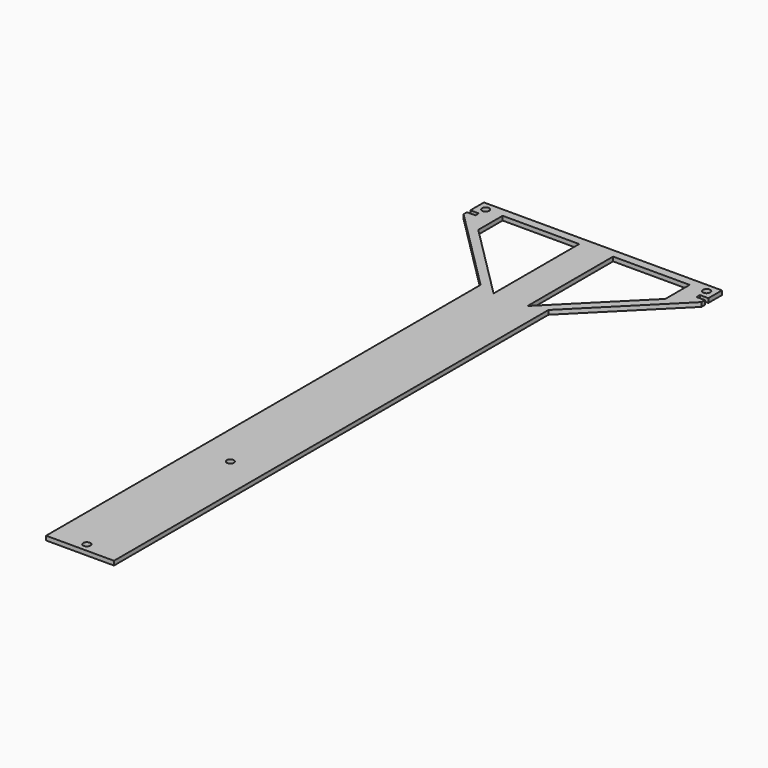
from build123d import *

# Parameters (mm, degrees)
F0_R     = 1.35255
F1_DEPTH = 1.5875
F2_W     = 3.175
F2_H     = 1.5875
F3_DEPTH = 1.5875


with BuildPart() as f1:
    # F0 (on Top) → F1 (new body)
    with BuildSketch(Plane.XY):
        Polygon((0, 0), (0, -203.2), (25.4, -203.2), (25.4, 0), (57.21985, 31.81985), (57.21985, 41.34485), (-31.81985, 41.34485), (-31.81985, 31.81985), align=None)
        with Locations((12.7, -200.025)):
            Circle(F0_R, mode=Mode.SUBTRACT)
        with Locations((12.7, -132.8928)):
            Circle(F0_R, mode=Mode.SUBTRACT)
        with Locations((-28.64485, 38.16985)):
            Circle(F0_R, mode=Mode.SUBTRACT)
        with Locations((54.04485, 38.16985)):
            Circle(F0_R, mode=Mode.SUBTRACT)
    extrude(amount=F1_DEPTH)

    # F2 (on face) → F3 (cut, through all)
    with BuildSketch(Plane.XY.offset(1.5875)):
        with Locations((-30.23235, 34.2011)):
            Rectangle(F2_W, F2_H)
        with Locations((55.63235, 34.2011)):
            Rectangle(F2_W, F2_H)
        Polygon((-22.29485, 38.16985), (-22.29485, 26.784978), (6.35, -1.859872), (6.35, 38.16985), align=None)
        Polygon((47.69485, 38.16985), (19.05, 38.16985), (19.05, -1.859872), (47.69485, 26.784978), align=None)
    extrude(amount=-F3_DEPTH, mode=Mode.SUBTRACT)


solid = f1.part
